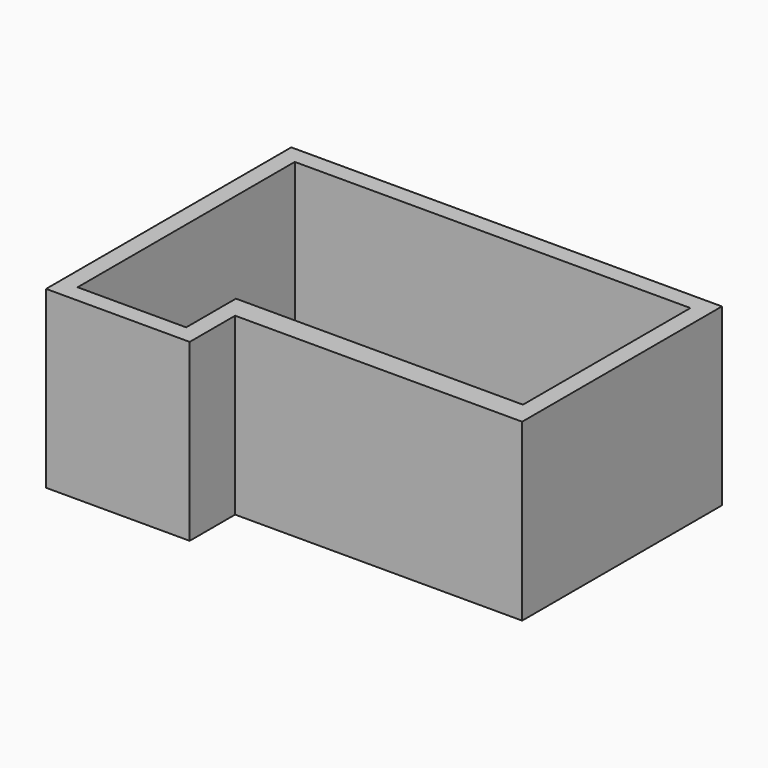
from build123d import *

# Parameters (mm, degrees)
F1_DEPTH = 2000
F2_DEPTH = 2000
F0_W     = 1240
F0_H     = 710
F3_DEPTH = 100


with BuildPart() as f1:
    # F0 (on Top) → F1 (new body)
    with BuildSketch(Plane.XY):
        Polygon((-1795, -1195), (-1795, 1195), (-1995, 1195), (-1995, -1905), (-1795, -1905), align=None)
    extrude(amount=F1_DEPTH)

    # F0 (on Top) → F2 (join)
    with BuildSketch(Plane.XY):
        Polygon((-555, -1905), (-1795, -1905), (-1995, -1905), (-1995, -2105), (-555, -2105), align=None)
        Polygon((-355, -1195), (-555, -1195), (-555, -1905), (-555, -2105), (-355, -2105), (-355, -1456.598401), align=None)
        Polygon((2722.903538, -1195), (1795, -1195), (-355, -1195), (-355, -1456.598401), (2722.903538, -1456.598401), align=None)
        Polygon((2922.903538, 1195), (2722.903538, 1195), (2722.903538, -1195), (2722.903538, -1456.598401), (2922.903538, -1456.598401), align=None)
        Polygon((-1995, 1195), (-1795, 1195), (1795, 1195), (2722.903538, 1195), (2922.903538, 1195), (2922.903538, 1395), (-1995, 1395), align=None)
    extrude(amount=F2_DEPTH)

    # F0 (on Top) → F3 (join)
    with BuildSketch(Plane.XY):
        with Locations((-1175, -1550)):
            Rectangle(F0_W, F0_H)
        Polygon((1795, 1195), (-1795, 1195), (-1795, -1195), (-555, -1195), (-355, -1195), (1795, -1195), align=None)
    extrude(amount=F3_DEPTH)


solid = f1.part
